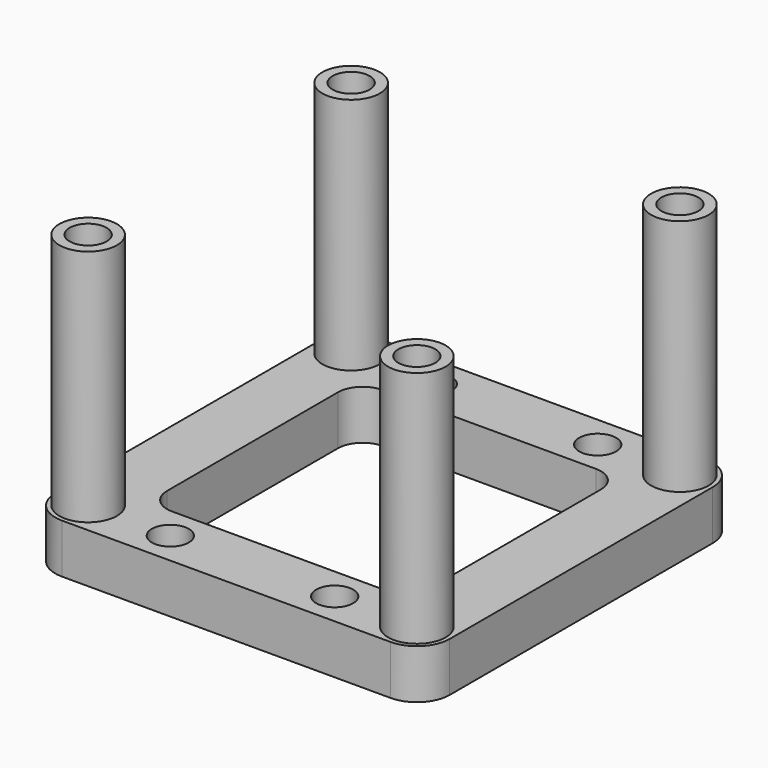
from build123d import *

# Parameters (mm, degrees)
SKETCH_R                     = 3.5
PAD_DEPTH                    = 35
SKETCH002_W                  = 48
SKETCH002_H                  = 48
SKETCH002_W_2                = 32
SKETCH002_H_2                = 32
PAD001_DEPTH                 = 6
SKETCH001_R                  = 2.25
POCKET_DEPTH                 = 7
SKETCH_LINEARPATTERN_2_R     = 3.5
PAD_LINEARPATTERN_2_DEPTH    = 35
SKETCH001_LINEARPATTERN_2_R  = 2.25
POCKET_LINEARPATTERN_2_DEPTH = 7
LINEARPATTERN001_COUNT       = 2
LINEARPATTERN001_PITCH       = 40
SKETCH003_R                  = 2.25
HOLE_DEPTH                   = 35.001
FILLET_R                     = 4
FILLET001_R                  = 3


with BuildPart() as part:
    # Sketch → Pad (new body)
    with BuildSketch(Plane.XY):
        Circle(SKETCH_R)
    pad = extrude(amount=PAD_DEPTH)

    # Sketch002 → Pad001 (join)
    with BuildSketch(Plane.XY):
        with Locations((20, 20)):
            Rectangle(SKETCH002_W, SKETCH002_H)
        with Locations((20, 20)):
            Rectangle(SKETCH002_W_2, SKETCH002_H_2, mode=Mode.SUBTRACT)
    extrude(amount=PAD001_DEPTH)

    # Sketch001 → Pocket (cut)
    with BuildSketch(Plane.XY.offset(35)):
        Circle(SKETCH001_R)
    pocket = extrude(amount=-POCKET_DEPTH, mode=Mode.SUBTRACT)

    # Sketch LinearPattern 2 → Pad LinearPattern 2 (add)
    with BuildSketch(Plane(origin=(40, 0, 0), x_dir=(1, 0, 0), z_dir=(0, 0, 1))):
        Circle(SKETCH_LINEARPATTERN_2_R)
    pad_linearpattern_2 = extrude(amount=PAD_LINEARPATTERN_2_DEPTH)

    # Sketch001 LinearPattern 2 → Pocket LinearPattern 2 (cut)
    with BuildSketch(Plane(origin=(40, 0, 35), x_dir=(1, 0, 0), z_dir=(0, 0, 1))):
        Circle(SKETCH001_LINEARPATTERN_2_R)
    pocket_linearpattern_2 = extrude(amount=-POCKET_LINEARPATTERN_2_DEPTH, mode=Mode.SUBTRACT)

    # LinearPattern001: Pad, Pocket, Pad LinearPattern 2, Pocket LinearPattern 2 ×2
    with Locations(*[(0, i * LINEARPATTERN001_PITCH, 0) for i in range(1, LINEARPATTERN001_COUNT)]):
        add(pad)
        add(pocket, mode=Mode.SUBTRACT)
        add(pad_linearpattern_2)
        add(pocket_linearpattern_2, mode=Mode.SUBTRACT)

    # Sketch003 → Hole (cut, through all)
    with BuildSketch(Plane.XY):
        with Locations((10, 40)):
            Circle(SKETCH003_R)
        with Locations((30, 40)):
            Circle(SKETCH003_R)
        with Locations((30, 0)):
            Circle(SKETCH003_R)
        with Locations((10, 0)):
            Circle(SKETCH003_R)
    extrude(amount=HOLE_DEPTH, mode=Mode.SUBTRACT)

    # Fillet
    fillet_edges = [part.edges().sort_by_distance(p)[0] for p in [
        (-4, -4, 3),
        (44, -4, 3),
        (-4, 44, 3),
        (44, 44, 3),
    ]]
    fillet(fillet_edges, radius=FILLET_R)

    # Fillet001
    fillet001_edges = [part.edges().sort_by_distance(p)[0] for p in [
        (4, 36, 3),
        (36, 36, 3),
        (36, 4, 3),
        (4, 4, 3),
    ]]
    fillet(fillet001_edges, radius=FILLET001_R)


solid = part.part
